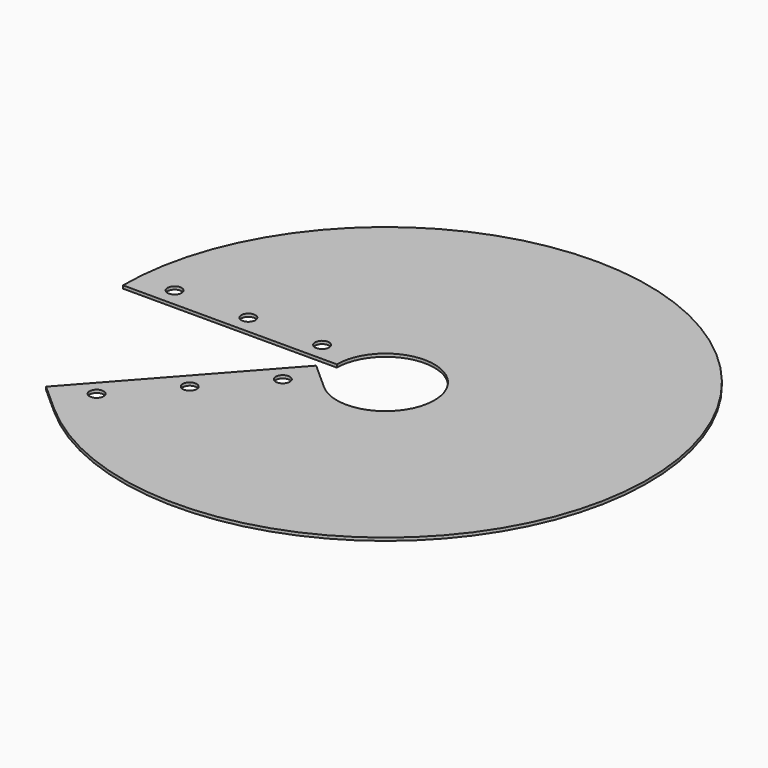
from build123d import *

# Parameters (mm, degrees)
F1_DEPTH = 1.016
F3_D     = 4.826


with BuildPart() as f1:
    # F0 (on Top) → F1 (new body)
    with BuildSketch(Plane.XY):
        with BuildLine():
            Line((-90.4505589354, 0), (-16.7905589354, 0))
            ThreePointArc((-16.7905589354, 0), (15.3250850137, 6.8603672412), (-11.1844753183, -12.5231937307))
            Line((-11.1844753183, -12.5231937307), (-60.2506472734, -67.4623088462))
            ThreePointArc((-60.2506472734, -67.4623088462), (82.5560668086, 36.9567239459), (-90.4505589354, 0))
        make_face()
        Polygon((-60.2506472734, -67.4623088462), (-11.1844753183, -12.5231937307), (-20.6567365451, -4.0635089109), (-69.7229085002, -59.0026240263), align=None)
    extrude(amount=F1_DEPTH)

    # F3 (through all)
    with Locations(Plane(origin=(0, 0, 0), x_dir=(1, 0, 0), z_dir=(0, 0, -1))):
        with Locations((-77.7505589354, -6.35), (-52.3505589354, -6.35), (-26.9505589354, -6.35), (-22.6883537876, 15.8711603022), (-39.6077234273, 34.8156827558), (-56.5270930669, 53.7602052095)):
            Hole(F3_D / 2)


solid = f1.part
